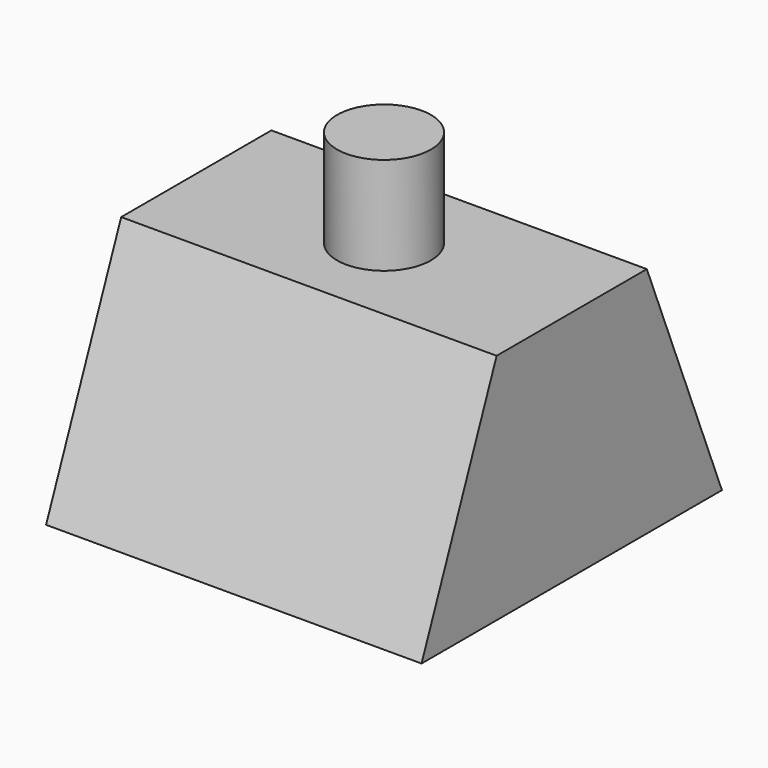
from build123d import *

# Parameters (mm, degrees)
F1_DEPTH = 25.4
F2_R     = 3.175
F3_DEPTH = 6.604


with BuildPart() as f1:
    # F0 (on Right) → F1 (new body)
    with BuildSketch(Plane.YZ):
        Polygon((-6.35, 15.748), (-12.7, 0), (12.7, 0), (6.35, 15.748), align=None)
    extrude(amount=F1_DEPTH)

    # F2 (on face) → F3 (join)
    with BuildSketch(Plane.XY.offset(15.748)):
        with Locations((12.7, 0)):
            Circle(F2_R)
    extrude(amount=F3_DEPTH)


solid = f1.part
